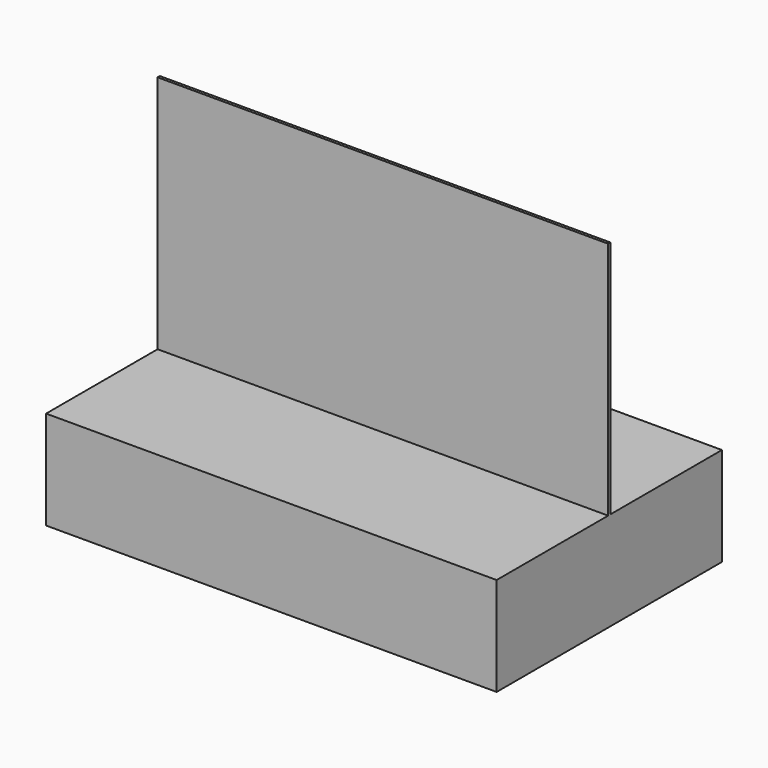
from build123d import *

# Parameters (mm, degrees)
F0_W     = 1600
F0_H     = 5
F1_DEPTH = 1200
F0_H_2   = 495
F2_DEPTH = 350


with BuildPart() as f1:
    # F0 (on Top) → F1 (new body)
    with BuildSketch(Plane.XY):
        with Locations((-800, -497.5)):
            Rectangle(F0_W, F0_H)
        with Locations((-800, -502.5)):
            Rectangle(F0_W, F0_H)
    extrude(amount=F1_DEPTH)

    # F0 (on Top) → F2 (join)
    with BuildSketch(Plane.XY):
        with Locations((-800, -247.5)):
            Rectangle(F0_W, F0_H_2)
        with Locations((-800, -497.5)):
            Rectangle(F0_W, F0_H)
        with Locations((-800, -502.5)):
            Rectangle(F0_W, F0_H)
        with Locations((-800, -752.5)):
            Rectangle(F0_W, F0_H_2)
    extrude(amount=F2_DEPTH)


solid = f1.part
